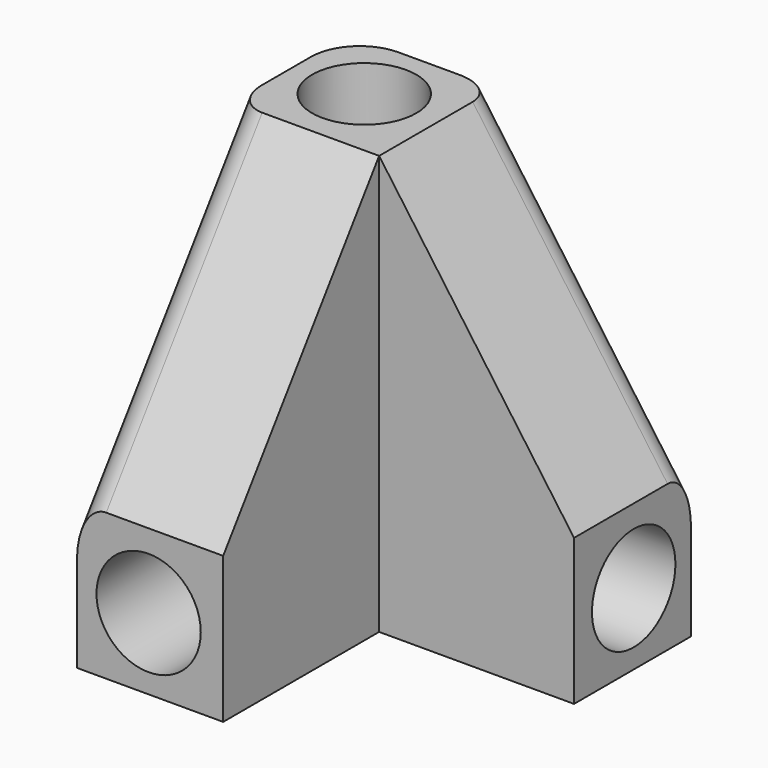
from build123d import *

# Parameters (mm, degrees)
F0_W        = 35
F0_H        = 35
F1_DEPTH    = 43
F2_R        = 5.35
F3_DEPTH    = 21
F4_R        = 5.35
F5_DEPTH    = 21
F6_R        = 5.35
F7_DEPTH    = 21
F8_W        = 20
F8_H        = 20
F9_DEPTH    = 43.001
F10_R       = 5.35
F11_DEPTH   = 21
F12_SIZE2   = 20
F12_SIZE    = 28
F12_2_SIZE2 = 20
F12_2_SIZE  = 28
F13_R       = 5
F14_R       = 3


with BuildPart() as f1:
    # F0 (on Top) → F1 (new body)
    with BuildSketch(Plane.XY):
        with Locations((17.5, -17.5)):
            Rectangle(F0_W, F0_H)
    extrude(amount=F1_DEPTH)

    # F2 (on face) → F3 (cut)
    with BuildSketch(Plane.XZ.offset(35)):
        with Locations((7.35, 7.35)):
            Circle(F2_R)
    extrude(amount=-F3_DEPTH, mode=Mode.SUBTRACT)

    # F4 (on face) → F5 (cut)
    with BuildSketch(Plane.YZ.offset(35)):
        with Locations((-7.35, 7.35)):
            Circle(F4_R)
    extrude(amount=-F5_DEPTH, mode=Mode.SUBTRACT)

    # F6 (on face) → F7 (cut)
    with BuildSketch(Plane.XY.offset(43)):
        with Locations((7.35, -7.35)):
            Circle(F6_R)
    extrude(amount=-F7_DEPTH, mode=Mode.SUBTRACT)

    # F8 (on face) → F9 (cut, through all)
    with BuildSketch(Plane.XY.offset(43)):
        with Locations((25, -25)):
            Rectangle(F8_W, F8_H)
    extrude(amount=-F9_DEPTH, mode=Mode.SUBTRACT)

    # F10 (on face) → F11 (cut)
    with BuildSketch(Plane(origin=(0, 0, 0), x_dir=(1, 0, 0), z_dir=(0, 0, -1))):
        with Locations((7.35, 7.35)):
            Circle(F10_R)
    extrude(amount=-F11_DEPTH, mode=Mode.SUBTRACT)

    # F12
    f12_edges = [f1.edges().sort_by_distance(p)[0] for p in [
        (35, -7.5, 43),
    ]]
    f12_side = f1.faces().sort_by_distance((35, -7.524299, 23.792232))[0]
    chamfer(f12_edges, length=F12_SIZE, length2=F12_SIZE2, reference=f12_side)

    # F12#2
    f12_2_edges = [f1.edges().sort_by_distance(p)[0] for p in [
        (7.5, -35, 43),
    ]]
    f12_2_side = f1.faces().sort_by_distance((7.524299, -35, 23.792232))[0]
    chamfer(f12_2_edges, length=F12_2_SIZE, length2=F12_2_SIZE2, reference=f12_2_side)

    # F13
    f13_edges = [f1.edges().sort_by_distance(p)[0] for p in [
        (0, 0, 21.5),
    ]]
    fillet(f13_edges, radius=F13_R)

    # F14
    f14_edges = [f1.edges().sort_by_distance(p)[0] for p in [
        (0, -25, 29),
        (25, 0, 29),
    ]]
    fillet(f14_edges, radius=F14_R)


solid = f1.part
